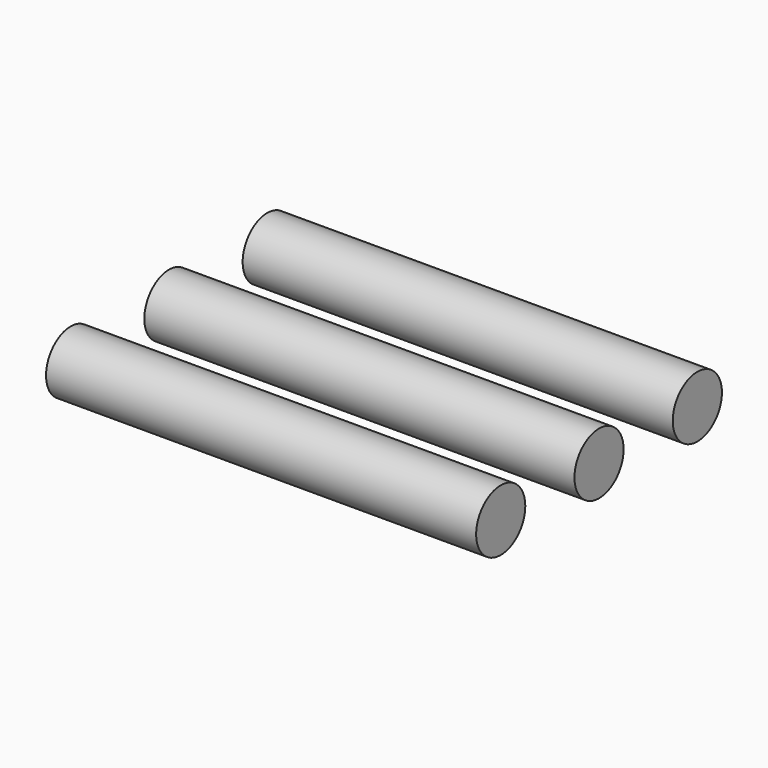
from build123d import *

# Parameters (mm, degrees)
F0_R     = 0.5
F1_DEPTH = 7


with BuildPart() as f1:
    # F0 (on Right) → F1 (new body)
    with BuildSketch(Plane.YZ):
        with Locations((17.995411, 44.084981)):
            Circle(F0_R)
        with Locations((15.995411, 44.084981)):
            Circle(F0_R)
        with Locations((13.995411, 44.084981)):
            Circle(F0_R)
    extrude(amount=F1_DEPTH)


solid = f1.part
